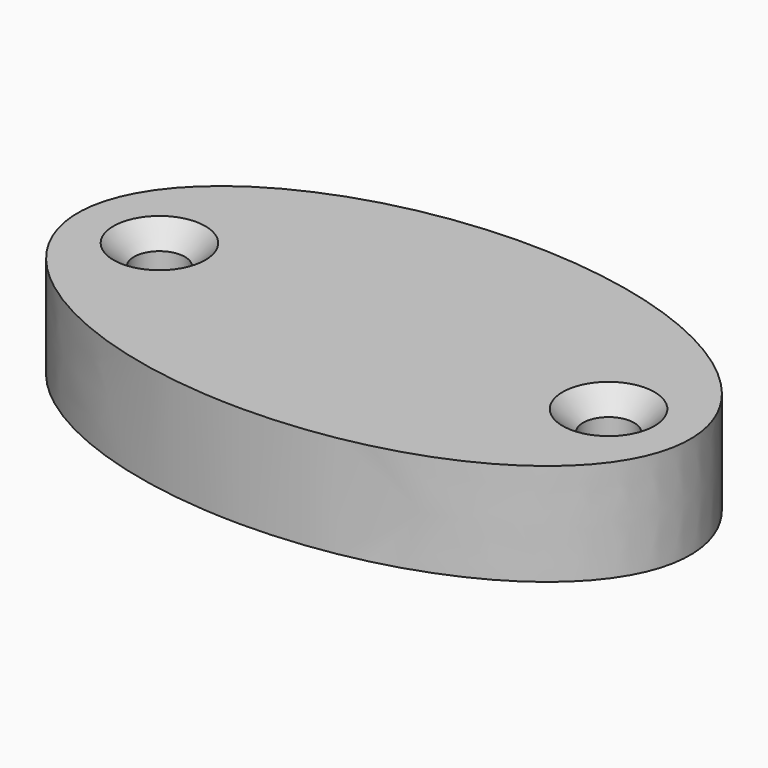
from build123d import *

# Parameters (mm, degrees)
F0_R     = 2.5
F1_DEPTH = 10
F2_SIZE  = 2


with BuildPart() as f1:
    # F0 (on Top) → F1 (new body)
    with BuildSketch(Plane.XY):
        with BuildLine():
            add(Edge.make_bspline(
                [(-28.76029, 7.407023), (23.201234, 7.407023), (-2.779528, 33.657023), (-28.76029, 59.907023), (-54.741052, 33.657023), (-80.721814, 7.407023), (-28.76029, 7.407023)],
                knots=[4.712389, 4.712389, 4.712389, 6.806784, 6.806784, 8.901179, 8.901179, 10.995574, 10.995574, 10.995574], degree=2, weights=[1, 0.5, 1, 0.5, 1, 0.5, 1]))
        make_face()
        with Locations((-50.76029, 24.907023)):
            Circle(F0_R, mode=Mode.SUBTRACT)
        with Locations((-6.76029, 24.907023)):
            Circle(F0_R, mode=Mode.SUBTRACT)
    extrude(amount=F1_DEPTH)

    # F2
    f2_edges = [f1.edges().sort_by_distance(p)[0] for p in [
        (-53.26029, 24.907023, 10),
        (-9.26029, 24.907023, 10),
    ]]
    chamfer(f2_edges, length=F2_SIZE)


solid = f1.part
